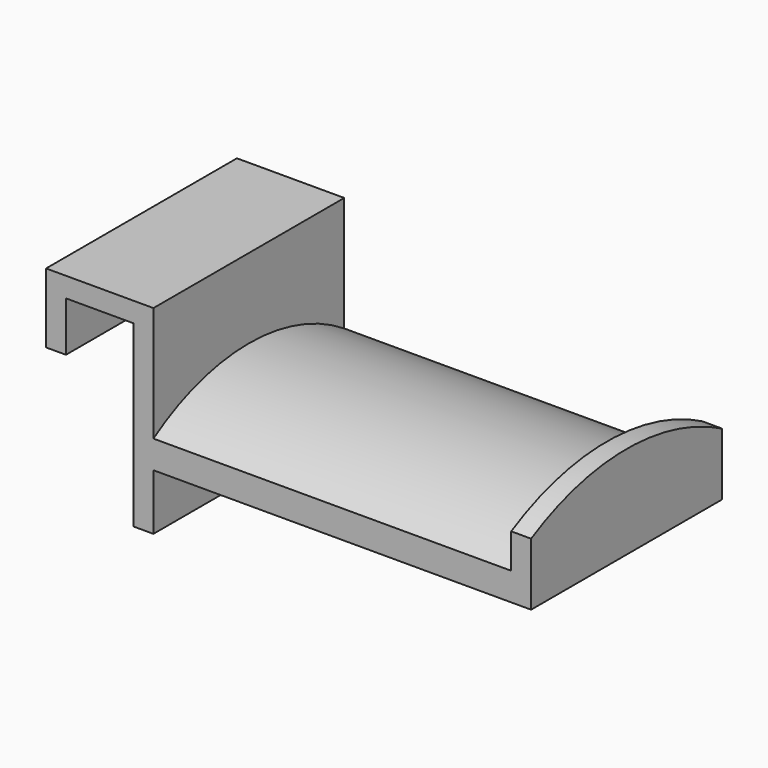
from build123d import *

# Parameters (mm, degrees)
F1_DEPTH = 60
F3_DEPTH = 90
F5_DEPTH = 5


with BuildPart() as f1:
    # F0 (on Front) → F1 (new body)
    with BuildSketch(Plane.XZ):
        Polygon((-5, 0), (0, 0), (0, 12.5), (17, 12.5), (17, -32.5), (22, -32.5), (22, 17.5), (-5, 17.5), align=None)
    extrude(amount=F1_DEPTH)

    # F2 (on face) → F3 (join)
    with BuildSketch(Plane.YZ.offset(22)):
        with BuildLine():
            Line((-60, -18.402278), (0, -18.402278))
            Line((0, -18.402278), (0, -11.402278))
            ThreePointArc((0, -11.402278), (-30, -2.5), (-60, -11.402278))
            Line((-60, -11.402278), (-60, -18.402278))
        make_face()
    extrude(amount=F3_DEPTH)

    # F4 (on face) → F5 (join)
    with BuildSketch(Plane.YZ.offset(112)):
        with BuildLine():
            ThreePointArc((-60, -11.402278), (-30, -2.5), (0, -11.402278))
            Line((0, -11.402278), (0, -2.67072))
            ThreePointArc((0, -2.67072), (-30, 5), (-60, -2.67072))
            Line((-60, -2.67072), (-60, -11.402278))
        make_face()
        with BuildLine():
            Line((-60, -18.402278), (0, -18.402278))
            Line((0, -18.402278), (0, -11.402278))
            ThreePointArc((0, -11.402278), (-30, -2.5), (-60, -11.402278))
            Line((-60, -11.402278), (-60, -18.402278))
        make_face()
    extrude(amount=F5_DEPTH)


solid = f1.part
